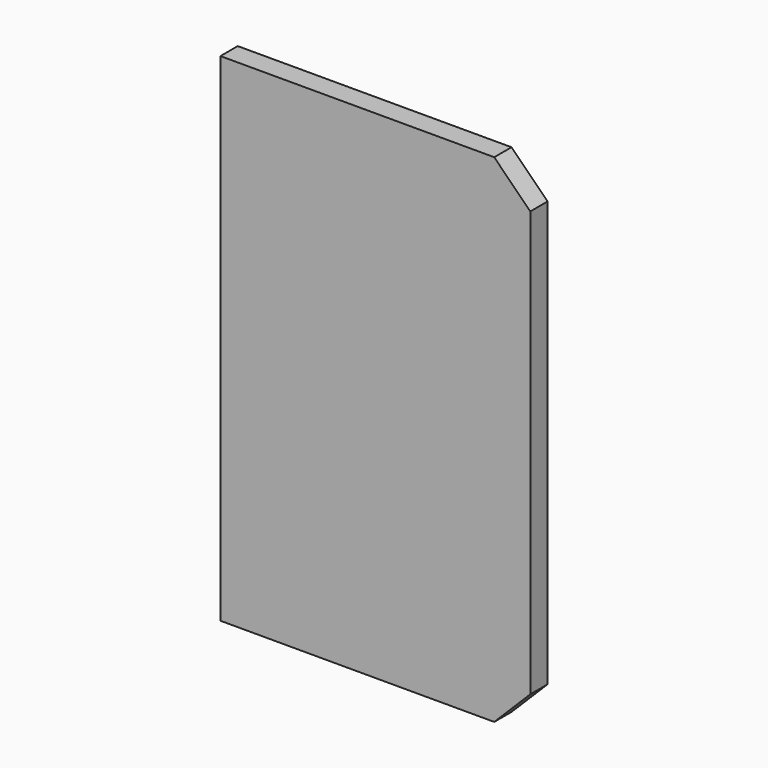
from build123d import *

# Parameters (mm, degrees)
F0_W     = 86
F0_H     = 138
F1_DEPTH = 6
F2_SIZE  = 10


with BuildPart() as f1:
    # F0 (on Front) → F1 (new body)
    with BuildSketch(Plane.XZ):
        with Locations((-10.410899, 26.707942)):
            Rectangle(F0_W, F0_H)
    extrude(amount=F1_DEPTH)

    # F2
    f2_edges = [f1.edges().sort_by_distance(p)[0] for p in [
        (32.589101, -3, 95.707942),
        (32.589101, -3, -42.292058),
    ]]
    chamfer(f2_edges, length=F2_SIZE)


solid = f1.part
